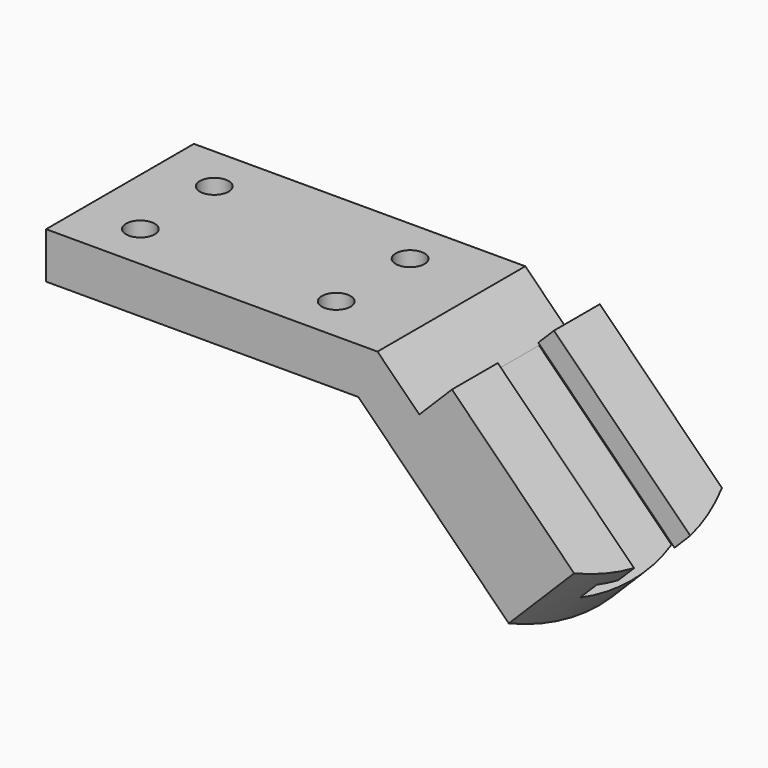
from build123d import *

# Parameters (mm, degrees)
F1_DEPTH       = 50.8
F3_D           = 7.9248
F3_CBORE_D     = 12.7
F3_CBORE_DEPTH = 6.096
F5_DEPTH       = 134.531275
F7_DEPTH       = 118.529275


with BuildPart() as f1:
    # F0 (on Front) → F1 (new body)
    with BuildSketch(Plane.XZ):
        Polygon((0, 0), (85.852, 0), (131.70327, -45.85127), (140.683526, -36.871014), (102.60724, 1.205272), (91.112512, 12.7), (0, 12.7), align=None)
        Polygon((102.60724, 1.205272), (140.683526, -36.871014), (149.663782, -27.890758), (111.587496, 10.185528), align=None)
    extrude(amount=F1_DEPTH)

    # F3 (through all)
    with Locations(Plane(origin=(0, 0, 0), x_dir=(1, 0, 0), z_dir=(0, 0, -1))):
        with Locations((15.748, 38.1), (69.596, 38.1), (69.596, 12.7), (15.748, 12.7)):
            CounterBoreHole(F3_D / 2, F3_CBORE_D / 2, F3_CBORE_DEPTH)

    # F4 (on face) → F5 (cut, through all)
    with BuildSketch(Plane(origin=(88.77727, 0, -88.77727), x_dir=(0, 1, 0), z_dir=(0.707107, 0, -0.707107))):
        Polygon((-15.748, 86.106531), (-35.052, 86.106531), (-35.052, 80.010531), (-41.148, 80.010531), (-41.148, 73.406531), (-9.652, 73.406531), (-9.652, 80.010531), (-15.748, 80.010531), align=None)
    extrude(amount=-F5_DEPTH, mode=Mode.SUBTRACT)

    # F6 (on face) → F7 (cut, through all)
    with BuildSketch(Plane(origin=(60.886512, 0, 60.886512), x_dir=(0.707107, 0, -0.707107), z_dir=(0.707107, 0, 0.707107))):
        with BuildLine():
            ThreePointArc((119.183037, 0), (123.934026, -12.307078), (125.550019, -25.4))
            Line((125.550019, -25.4), (125.550019, 0))
            Line((125.550019, 0), (119.183037, 0))
        make_face()
        with BuildLine():
            ThreePointArc((125.550019, -25.4), (123.934026, -38.492922), (119.183037, -50.8))
            Line((119.183037, -50.8), (125.550019, -50.8))
            Line((125.550019, -50.8), (125.550019, -25.4))
        make_face()
        with BuildLine():
            ThreePointArc((125.550019, -25.4), (123.934026, -38.492922), (119.183037, -50.8))
            Line((119.183037, -50.8), (125.550019, -50.8))
            Line((125.550019, -50.8), (125.550019, -25.4))
        make_face()
    extrude(amount=-F7_DEPTH, mode=Mode.SUBTRACT)


solid = f1.part
